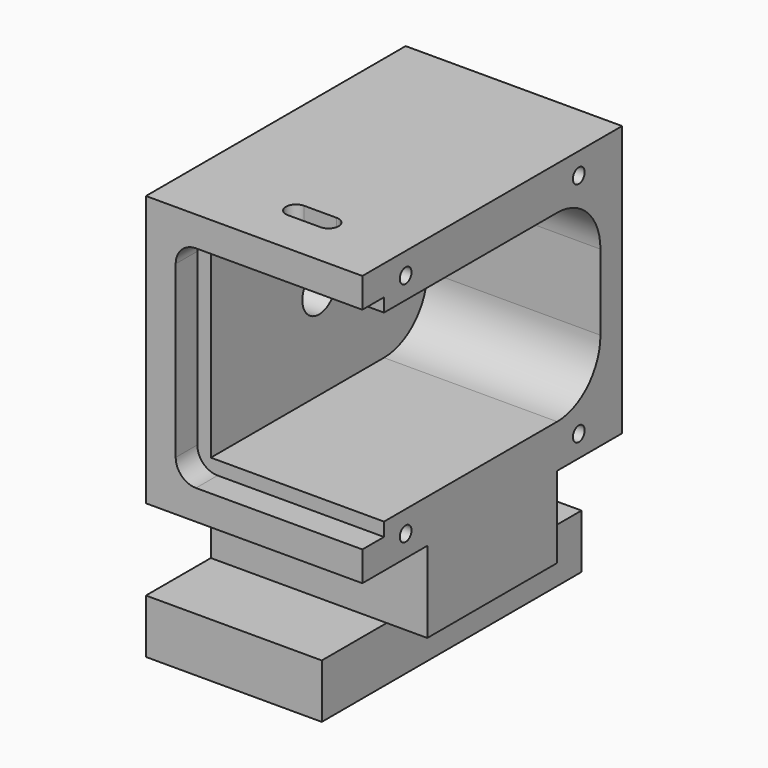
from build123d import *

# Parameters (mm, degrees)
F0_W      = 38.1
F0_H      = 19.05
F1_DEPTH  = 50.8
F3_D      = 9.8044
F4_W      = 50.8
F4_H      = 19.05
F4_H_2    = 38.1
F5_DEPTH  = 12.7
F7_W      = 40.64
F7_H      = 43.18
F8_DEPTH  = 69.85
F9_W      = 40.64
F9_H      = 43.18
F10_DEPTH = 6.35
F12_DEPTH = 9.525
F14_D     = 3.4544
F14_DEPTH = 12.7
F14_TIP   = 1.0378064612
F15_R     = 12.7
F16_R     = 12.7
F17_R     = 4.7625
F19_DEPTH = 25.4


with BuildPart() as f1:
    # F0 (on Right) → F1 (new body)
    with BuildSketch(Plane.YZ):
        Polygon((0, 63.5), (0, 0), (19.05, 0), (57.15, 0), (76.2, 0), (76.2, 63.5), align=None)
        with Locations((38.1, -9.525)):
            Rectangle(F0_W, F0_H)
    extrude(amount=F1_DEPTH)

    # F3 (through all)
    with Locations(Plane(origin=(0, 0, 0), x_dir=(0, -1, 0), z_dir=(-1, 0, 0))):
        with Locations((-38.1, 31.75)):
            Hole(F3_D / 2)

    # F4 (on face) → F5 (join)
    with BuildSketch(Plane(origin=(0, 0, -19.05), x_dir=(1, 0, 0), z_dir=(0, 0, -1))):
        with Locations((25.4, -9.525)):
            Rectangle(F4_W, F4_H)
        with Locations((25.4, -66.675)):
            Rectangle(F4_W, F4_H)
        with Locations((25.4, -38.1)):
            Rectangle(F4_W, F4_H_2)
    extrude(amount=F5_DEPTH)

    # F7 (on face) → F8 (cut)
    with BuildSketch(Plane.XZ):
        with Locations((30.48, 31.75)):
            Rectangle(F7_W, F7_H)
    extrude(amount=-F8_DEPTH, mode=Mode.SUBTRACT)

    # F9 (on face) → F10 (cut)
    with BuildSketch(Plane.XZ):
        with Locations((30.48, 31.75)):
            Rectangle(F9_W, F9_H)
        Polygon((50.8, 53.34), (50.8, 56.515), (6.985, 56.515), (6.985, 6.985), (50.8, 6.985), (50.8, 10.16), (10.16, 10.16), (10.16, 53.34), align=None)
    extrude(amount=-F10_DEPTH, mode=Mode.SUBTRACT)

    # F11 (on face) → F12 (cut)
    with BuildSketch(Plane.YZ.offset(50.8)):
        Polygon((19.05, -19.05), (0, -19.05), (0, -31.75), (76.2, -31.75), (76.2, -19.05), (57.15, -19.05), align=None)
    extrude(amount=-F12_DEPTH, mode=Mode.SUBTRACT)

    # F14
    with Locations(Plane.YZ.offset(50.8)):
        with Locations((12.7, 58.42), (63.5, 58.42), (12.7, 5.08), (63.5, 5.08)):
            Hole(F14_D / 2, depth=F14_DEPTH)
            with Locations((0, 0, -(F14_DEPTH + F14_TIP / 2))):  # 118° drill point
                Cone(0, F14_D / 2, F14_TIP, mode=Mode.SUBTRACT)

    # F15
    f15_edges = [f1.edges().sort_by_distance(p)[0] for p in [
        (30.48, 69.85, 53.34),
    ]]
    fillet(f15_edges, radius=F15_R)

    # F16
    f16_edges = [f1.edges().sort_by_distance(p)[0] for p in [
        (30.48, 69.85, 10.16),
    ]]
    fillet(f16_edges, radius=F16_R)

    # F17
    f17_edges = [f1.edges().sort_by_distance(p)[0] for p in [
        (6.985, 3.175, 56.515),
        (6.985, 3.175, 6.985),
    ]]
    fillet(f17_edges, radius=F17_R)

    # F18 (on face) → F19 (cut)
    with BuildSketch(Plane.XY.offset(63.5)):
        with BuildLine():
            ThreePointArc((25.0825, 15.08125), (26.7662980227, 14.3837980227), (27.46375, 12.7))
            ThreePointArc((27.46375, 12.7), (26.7662980227, 11.0162019773), (25.0825, 10.31875))
            Line((25.0825, 10.31875), (32.7025, 10.31875))
            ThreePointArc((32.7025, 10.31875), (30.32125, 12.7), (32.7025, 15.08125))
            Line((32.7025, 15.08125), (25.0825, 15.08125))
        make_face()
        with BuildLine():
            ThreePointArc((35.08375, 12.7), (34.3862980227, 14.3837980227), (32.7025, 15.08125))
            ThreePointArc((32.7025, 15.08125), (30.32125, 12.7), (32.7025, 10.31875))
            ThreePointArc((32.7025, 10.31875), (34.3862980227, 11.0162019773), (35.08375, 12.7))
        make_face()
        with BuildLine():
            ThreePointArc((25.0825, 10.31875), (26.7662980227, 11.0162019773), (27.46375, 12.7))
            ThreePointArc((27.46375, 12.7), (26.7662980227, 14.3837980227), (25.0825, 15.08125))
            ThreePointArc((25.0825, 15.08125), (22.70125, 12.7), (25.0825, 10.31875))
        make_face()
    extrude(amount=-F19_DEPTH, mode=Mode.SUBTRACT)


solid = f1.part
